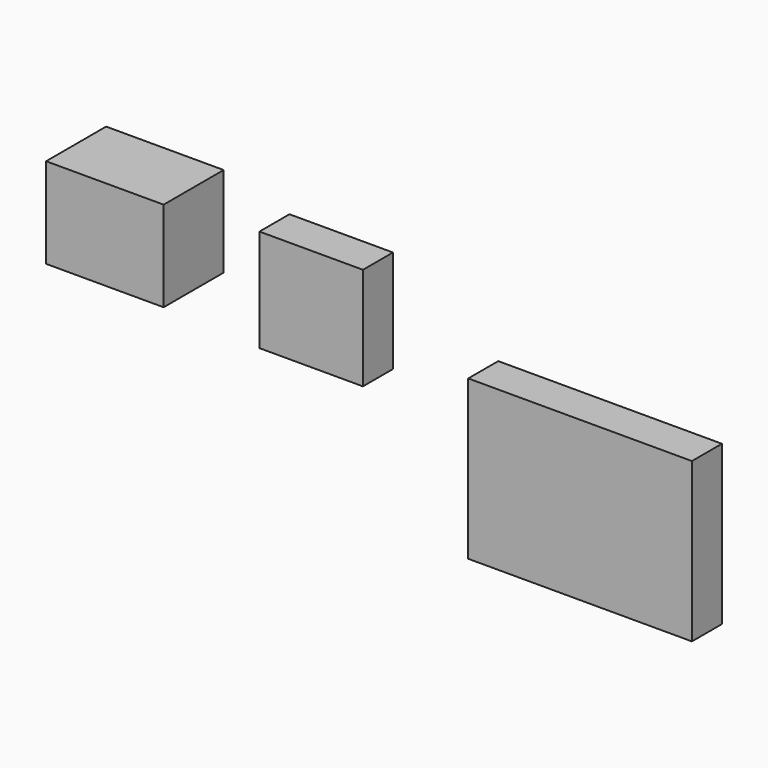
from build123d import *

# Parameters (mm, degrees)
F0_W      = 78.321546
F0_H      = 60.202362
F0_W_2    = 68.969697
F0_H_2    = 68.385208
F0_W_3    = 149.044689
F0_H_3    = 105.792495
F1_DEPTH  = 25
F1_FACE_W = 78.321546
F1_FACE_H = 60.202362
F2_DEPTH  = 25


with BuildPart() as f1:
    # F0 (on Front) → F1 (new body)
    with BuildSketch(Plane.XZ):
        with Locations((-338.711366, 1.753467)):
            Rectangle(F0_W, F0_H)
        with Locations((-221.229091, -14.027736)):
            Rectangle(F0_W_2, F0_H_2)
        with Locations((-42.083213, -73.645605)):
            Rectangle(F0_W_3, F0_H_3)
    extrude(amount=F1_DEPTH)

    # F1_face (on face) → F2 (join)
    with BuildSketch(Plane(origin=(-338.711366, -25, 1.753467), x_dir=(1, 0, 0), z_dir=(0, -1, 0))):
        Rectangle(F1_FACE_W, F1_FACE_H)
    extrude(amount=F2_DEPTH)


solid = f1.part
